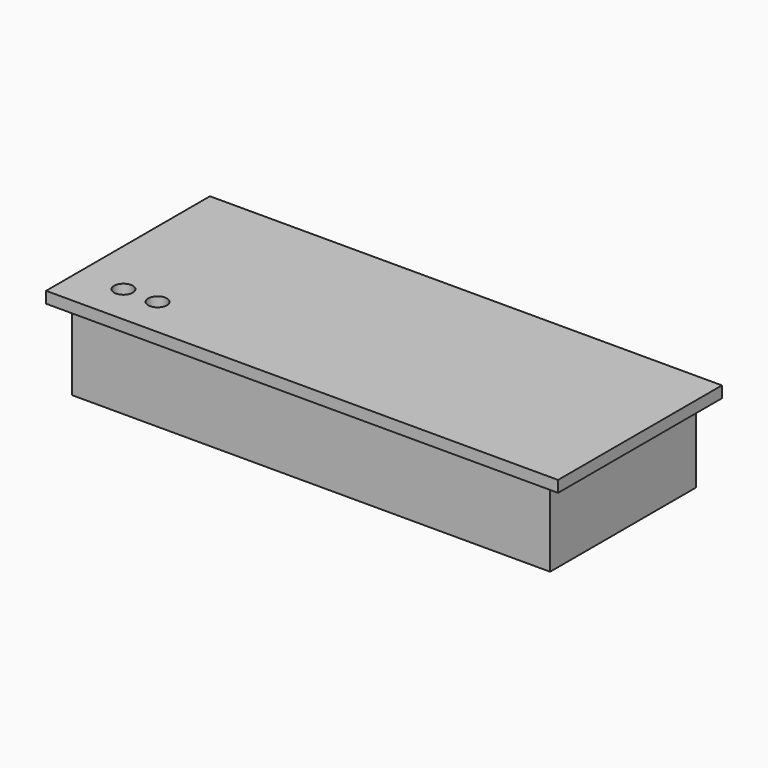
from build123d import *

# Parameters (mm, degrees)
F0_W     = 450
F0_H     = 180
F1_DEPTH = 10
F2_W     = 420
F2_H     = 160
F2_W_2   = 400
F2_H_2   = 140
F3_DEPTH = 70
F5_D     = 16.5


with BuildPart() as f1:
    # F0 (on Top) → F1 (new body)
    with BuildSketch(Plane.XY):
        Rectangle(F0_W, F0_H)
    extrude(amount=F1_DEPTH)

    # F2 (on face) → F3 (join)
    with BuildSketch(Plane(origin=(0, 0, 0), x_dir=(1, 0, 0), z_dir=(0, 0, -1))):
        Rectangle(F2_W, F2_H)
        Rectangle(F2_W_2, F2_H_2, mode=Mode.SUBTRACT)
    extrude(amount=F3_DEPTH)

    # F5 (through all)
    with Locations(Plane.XY.offset(10)):
        with Locations((-185, -55), (-155, -55)):
            Hole(F5_D / 2)


solid = f1.part
